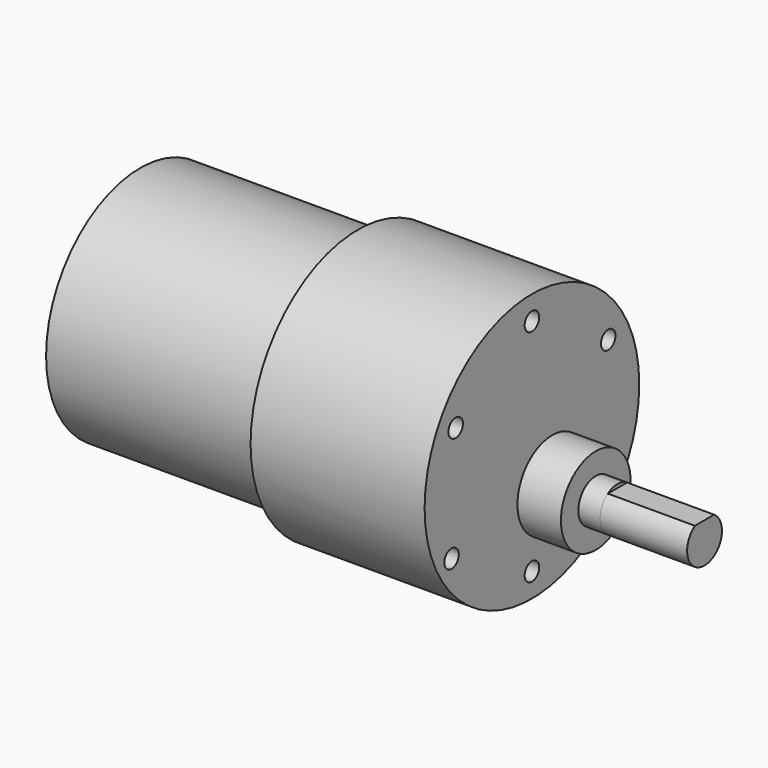
from build123d import *

# Parameters (mm, degrees)
SKETCH061_R             = 16.25
PAD047_DEPTH            = 30
SKETCH062_R             = 18.5
PAD048_DEPTH            = 24
SKETCH063_R             = 1.25
POCKET012_DEPTH         = 4
SKETCH064_R             = 6
PAD049_DEPTH            = 6
SKETCH065_R             = 3
PAD050_DEPTH            = 3
PAD051_DEPTH            = 12
BODY015_ROLL_ANGLE      = -90
BODY015_PLACEMENT_ANGLE = -90


with BuildPart() as part:
    # Sketch061 → Pad047 (new body)
    with BuildSketch(Plane.XY):
        Circle(SKETCH061_R)
    extrude(amount=PAD047_DEPTH)

    # Sketch062 (on Face3 of Pad047) → Pad048 (join)
    with BuildSketch(Plane.XY.offset(30)):
        Circle(SKETCH062_R)
    extrude(amount=PAD048_DEPTH)

    # Sketch063 (on Face5 of Pad048) → Pocket012 (cut)
    with BuildSketch(Plane.XY.offset(54)):
        with Locations((-13.14747, 7.590696)):
            Circle(SKETCH063_R)
        with Locations((-13.14747, -7.590696)):
            Circle(SKETCH063_R)
        with Locations((13.14747, -7.590696)):
            Circle(SKETCH063_R)
        with Locations((0, 15.181391)):
            Circle(SKETCH063_R)
        with Locations((13.853779, 7.998483)):
            Circle(SKETCH063_R)
        with Locations((0, -15.181391)):
            Circle(SKETCH063_R)
    extrude(amount=-POCKET012_DEPTH, mode=Mode.SUBTRACT)

    # Sketch064 (on Face5 of Pocket012) → Pad049 (join)
    with BuildSketch(Plane(origin=(0, 0, 54), x_dir=(0.866025, 0.5, 0), z_dir=(0, 0, 1))):
        with Locations((0, 7)):
            Circle(SKETCH064_R)
    extrude(amount=PAD049_DEPTH)

    # Sketch065 (on Face17 of Pad049) → Pad050 (join)
    with BuildSketch(Plane.XY.offset(60)):
        with Locations((-3.5, 6.062178)):
            Circle(SKETCH065_R)
    extrude(amount=PAD050_DEPTH)

    # Sketch066 (on Face21 of Pad050) → Pad051 (join)
    with BuildSketch(Plane.XY.offset(63)):
        with BuildLine():
            Line((-5.158312, 3.562178), (-1.841688, 3.562178))
            ThreePointArc((-1.841688, 3.562178), (-3.5, 9.062178), (-5.158312, 3.562178))
        make_face()
    extrude(amount=PAD051_DEPTH)


with BuildPart() as part_1:
    # Body015 roll: moved
    add(part.part.rotate(Axis((0, 0, 0), (1, 0, 0)), BODY015_ROLL_ANGLE))


with BuildPart() as part_2:
    # Body015 placement: moved
    add(part_1.part.moved(Location((-199, 213.5, 112))).rotate(Axis((-199, 213.5, 112), (0, 0, 1)), BODY015_PLACEMENT_ANGLE))


solid = part_2.part
